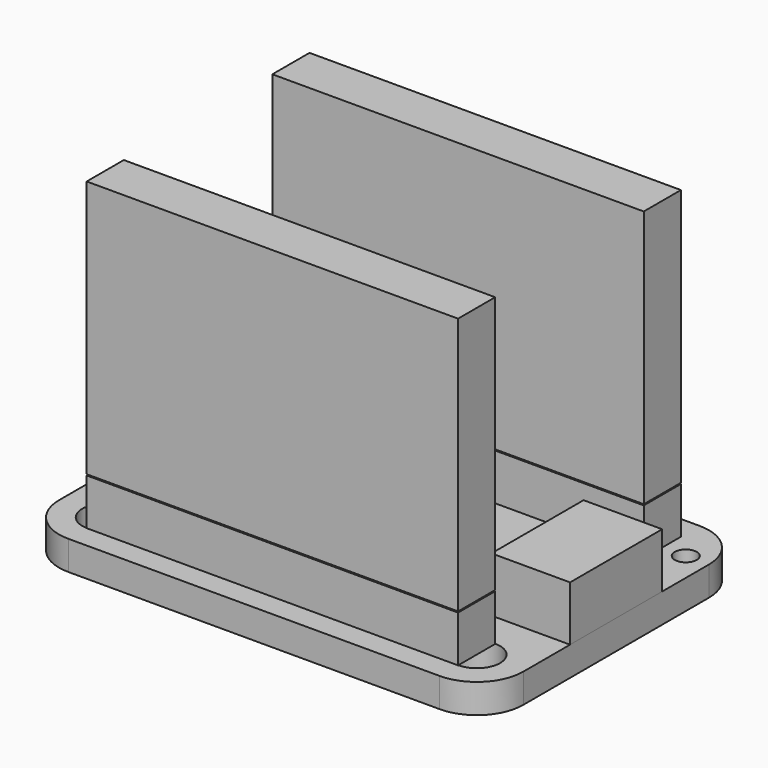
from build123d import *

# Parameters (mm, degrees)
PAD_DEPTH              = 1.6
SKETCH001_R            = 1.27
POCKET_DEPTH           = 1.601
SKETCH002_R            = 0.6
POCKET001_DEPTH        = 1.601
LINEARPATTERN_COUNT    = 3
LINEARPATTERN_PITCH    = 2.54
LINEARPATTERN001_COUNT = 4
LINEARPATTERN001_PITCH = 2.54
SKETCH003_R            = 0.6
POCKET002_DEPTH        = 1.601
LINEARPATTERN002_COUNT = 5
LINEARPATTERN002_PITCH = 2.54
LINEARPATTERN003_COUNT = 6
LINEARPATTERN003_PITCH = 2.54
SKETCH014_W            = 20.32
SKETCH014_H            = 2.54
PAD007_DEPTH           = 2.54
SKETCH018_W            = 20.32
SKETCH018_H            = 2.54
PAD009_DEPTH           = 14.1
SKETCH016_W            = 18.38
SKETCH016_H            = 0.6
PAD008_DEPTH           = 8.74
SKETCH017_W            = 1.94
SKETCH017_H            = 12.4
POCKET005_DEPTH        = 0.001
POCKET005_DEPTH_BACK   = 12.366
LINEARPATTERN004_COUNT = 2
LINEARPATTERN004_PITCH = 7.62
LINEARPATTERN006_COUNT = 2
LINEARPATTERN006_PITCH = 7.62
SKETCH019_W            = 4.3
SKETCH019_H            = 6.3
PAD010_DEPTH           = 3
SKETCH020_W            = 4.3
SKETCH020_H            = 6.3
PAD011_DEPTH           = 3
SKETCH021_W            = 18.38
SKETCH021_H            = 0.6
PAD012_DEPTH           = 8.74
SKETCH022_W            = 1.94
SKETCH022_H            = 12.4
POCKET006_DEPTH        = 0.001
POCKET006_DEPTH_BACK   = 12.366
LINEARPATTERN007_COUNT = 2
LINEARPATTERN007_PITCH = 7.62
LINEARPATTERN008_COUNT = 2
LINEARPATTERN008_PITCH = 7.62
SKETCH023_W            = 20.32
SKETCH023_H            = 2.54
PAD013_DEPTH           = 2.54
SKETCH024_W            = 20.32
SKETCH024_H            = 2.54
PAD014_DEPTH           = 14.1


with BuildPart() as obj1:
    # Sketch → Pad (new body)
    with BuildSketch(Plane.XY):
        with BuildLine():
            Line((-10.16, 8.89), (10.16, 8.89))
            ThreePointArc((12.7, 6.35), (11.956051, 8.146051), (10.16, 8.89))
            Line((12.7, 6.35), (12.7, -6.35))
            ThreePointArc((10.16, -8.89), (11.956051, -8.146051), (12.7, -6.35))
            Line((10.16, -8.89), (-10.16, -8.89))
            ThreePointArc((-12.7, -6.35), (-11.956051, -8.146051), (-10.16, -8.89))
            Line((-12.7, -6.35), (-12.7, 6.35))
            ThreePointArc((-10.16, 8.89), (-11.956051, 8.146051), (-12.7, 6.35))
        make_face()
    extrude(amount=PAD_DEPTH)

    # Sketch001 → Pocket (cut, through all)
    with BuildSketch(Plane.XY):
        with Locations((-10.16, -6.35)):
            Circle(SKETCH001_R)
        with Locations((10.16, -6.35)):
            Circle(SKETCH001_R)
    extrude(amount=POCKET_DEPTH, mode=Mode.SUBTRACT)

    # Sketch002 → Pocket001 (cut, through all)
    with BuildSketch(Plane.XY):
        with Locations((1.27, -6.35)):
            Circle(SKETCH002_R)
    pocket001 = extrude(amount=POCKET001_DEPTH, mode=Mode.SUBTRACT)

    # LinearPattern: Pocket001 ×3
    with Locations(*[(i * LINEARPATTERN_PITCH, 0, 0) for i in range(1, LINEARPATTERN_COUNT)]):
        add(pocket001, mode=Mode.SUBTRACT)

    # LinearPattern001: Pocket001 ×4
    with Locations(*[(-i * LINEARPATTERN001_PITCH, 0, 0) for i in range(1, LINEARPATTERN001_COUNT)]):
        add(pocket001, mode=Mode.SUBTRACT)

    # Sketch003 → Pocket002 (cut, through all)
    with BuildSketch(Plane.XY):
        with Locations((1.27, 6.35)):
            Circle(SKETCH003_R)
    pocket002 = extrude(amount=POCKET002_DEPTH, mode=Mode.SUBTRACT)

    # LinearPattern002: Pocket002 ×5
    with Locations(*[(i * LINEARPATTERN002_PITCH, 0, 0) for i in range(1, LINEARPATTERN002_COUNT)]):
        add(pocket002, mode=Mode.SUBTRACT)

    # LinearPattern003: Pocket002 ×6
    with Locations(*[(-i * LINEARPATTERN003_PITCH, 0, 0) for i in range(1, LINEARPATTERN003_COUNT)]):
        add(pocket002, mode=Mode.SUBTRACT)


with BuildPart() as pinblock:
    # Sketch014 → Pad007 (new body)
    with BuildSketch(Plane.XY):
        with Locations((0, -12.065)):
            Rectangle(SKETCH014_W, SKETCH014_H)
    extrude(amount=PAD007_DEPTH)


with BuildPart() as pinblock_1:
    # Body012 placement: moved
    add(pinblock.part.moved(Location((0, 18.4, 1.6))))


with BuildPart() as jumperheader:
    # Sketch018 → Pad009 (new body)
    with BuildSketch(Plane.XY):
        with Locations((0, -12.065)):
            Rectangle(SKETCH018_W, SKETCH018_H)
    extrude(amount=-PAD009_DEPTH)


with BuildPart() as jumperheader_1:
    # Body014 placement: moved
    add(jumperheader.part.moved(Location((0, 18.4, 18.3))))


with BuildPart() as pins:
    # Sketch016 → Pad008 (new body)
    with BuildSketch(Plane.XY):
        with Locations((0, -12.065)):
            Rectangle(SKETCH016_W, SKETCH016_H)
    extrude(amount=PAD008_DEPTH)

    # Sketch017 → Pocket005 (cut, two sides)
    with BuildSketch(Plane.XZ) as pocket005_sk:
        with Locations((-1.27, 8.44)):
            Rectangle(SKETCH017_W, SKETCH017_H)
        with Locations((1.27, 8.44)):
            Rectangle(SKETCH017_W, SKETCH017_H)
        with Locations((3.81, 8.44)):
            Rectangle(SKETCH017_W, SKETCH017_H)
        with Locations((-3.81, 8.44)):
            Rectangle(SKETCH017_W, SKETCH017_H)
    pocket005 = extrude(amount=-POCKET005_DEPTH, mode=Mode.SUBTRACT) + extrude(pocket005_sk.sketch, amount=POCKET005_DEPTH_BACK, mode=Mode.SUBTRACT)

    # LinearPattern004: Pocket005 ×2
    with Locations(*[(i * LINEARPATTERN004_PITCH, 0, 0) for i in range(1, LINEARPATTERN004_COUNT)]):
        add(pocket005, mode=Mode.SUBTRACT)

    # LinearPattern006: Pocket005 ×2
    with Locations(*[(-i * LINEARPATTERN006_PITCH, 0, 0) for i in range(1, LINEARPATTERN006_COUNT)]):
        add(pocket005, mode=Mode.SUBTRACT)


with BuildPart() as pins_1:
    # Body013 placement: moved
    add(pins.part.moved(Location((0, 18.4, 1.6))))


with BuildPart() as obj2:
    # Sketch019 → Pad010 (new body)
    with BuildSketch(Plane.XY):
        with Locations((10.55, 0)):
            Rectangle(SKETCH019_W, SKETCH019_H)
    extrude(amount=PAD010_DEPTH)


with BuildPart() as obj2_1:
    # Body015 placement: moved
    add(obj2.part.moved(Location((0, 0, 1.6))))


with BuildPart() as obj3:
    # Sketch020 → Pad011 (new body)
    with BuildSketch(Plane.XY):
        with Locations((10.55, 0)):
            Rectangle(SKETCH020_W, SKETCH020_H)
    extrude(amount=PAD011_DEPTH)


with BuildPart() as obj3_1:
    # Body016 placement: moved
    add(obj3.part.moved(Location((-21.1, 0, 1.6))))


with BuildPart() as pins001:
    # Sketch021 → Pad012 (new body)
    with BuildSketch(Plane.XY):
        with Locations((0, -12.065)):
            Rectangle(SKETCH021_W, SKETCH021_H)
    extrude(amount=PAD012_DEPTH)

    # Sketch022 → Pocket006 (cut, two sides)
    with BuildSketch(Plane.XZ) as pocket006_sk:
        with Locations((-1.27, 8.44)):
            Rectangle(SKETCH022_W, SKETCH022_H)
        with Locations((1.27, 8.44)):
            Rectangle(SKETCH022_W, SKETCH022_H)
        with Locations((3.81, 8.44)):
            Rectangle(SKETCH022_W, SKETCH022_H)
        with Locations((-3.81, 8.44)):
            Rectangle(SKETCH022_W, SKETCH022_H)
    pocket006 = extrude(amount=-POCKET006_DEPTH, mode=Mode.SUBTRACT) + extrude(pocket006_sk.sketch, amount=POCKET006_DEPTH_BACK, mode=Mode.SUBTRACT)

    # LinearPattern007: Pocket006 ×2
    with Locations(*[(i * LINEARPATTERN007_PITCH, 0, 0) for i in range(1, LINEARPATTERN007_COUNT)]):
        add(pocket006, mode=Mode.SUBTRACT)

    # LinearPattern008: Pocket006 ×2
    with Locations(*[(-i * LINEARPATTERN008_PITCH, 0, 0) for i in range(1, LINEARPATTERN008_COUNT)]):
        add(pocket006, mode=Mode.SUBTRACT)


with BuildPart() as pins001_1:
    # Body017 placement: moved
    add(pins001.part.moved(Location((0, 5.7, 1.6))))


with BuildPart() as pinblock001:
    # Sketch023 → Pad013 (new body)
    with BuildSketch(Plane.XY):
        with Locations((0, -12.065)):
            Rectangle(SKETCH023_W, SKETCH023_H)
    extrude(amount=PAD013_DEPTH)


with BuildPart() as pinblock001_1:
    # Body018 placement: moved
    add(pinblock001.part.moved(Location((0, 5.7, 1.6))))


with BuildPart() as jumperheader001:
    # Sketch024 → Pad014 (new body)
    with BuildSketch(Plane.XY):
        with Locations((0, -12.065)):
            Rectangle(SKETCH024_W, SKETCH024_H)
    extrude(amount=-PAD014_DEPTH)


with BuildPart() as jumperheader001_1:
    # Body019 placement: moved
    add(jumperheader001.part.moved(Location((0, 5.7, 18.3))))


solid = Compound([obj1.part, pinblock_1.part, jumperheader_1.part, pins_1.part, obj2_1.part, obj3_1.part, pins001_1.part, pinblock001_1.part, jumperheader001_1.part])
